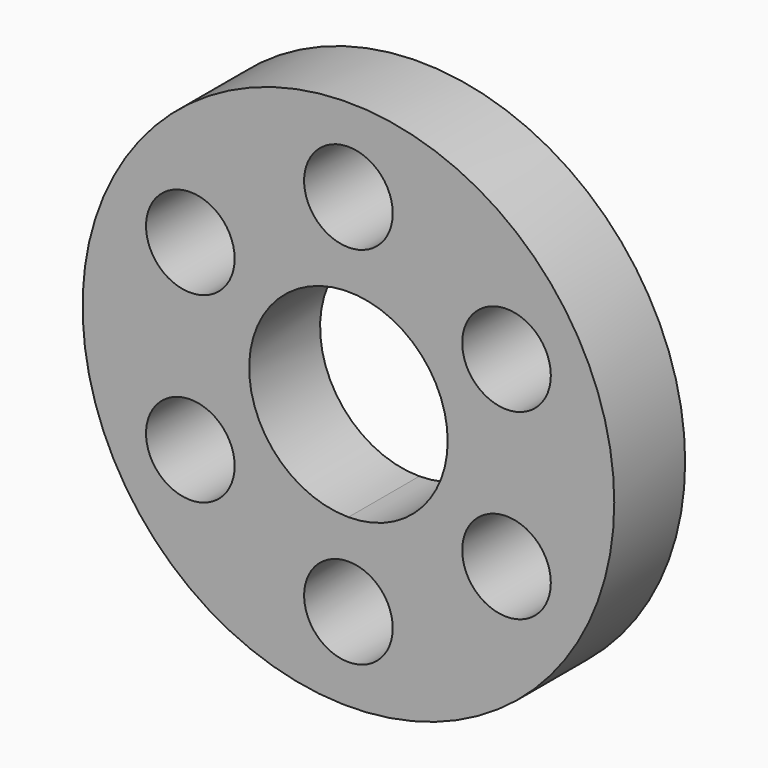
from build123d import *

# Parameters (mm, degrees)
F0_R     = 30
F0_R_2   = 5
F1_DEPTH = 7
F2_DEPTH = 10


with BuildPart() as f1:
    # F0 (on Front) → F1 (new body)
    with BuildSketch(Plane.XZ):
        with BuildLine():
            ThreePointArc((5, -20.6), (3.535534, -17.064466), (0, -15.6))
            ThreePointArc((0, -15.6), (-3.535534, -24.135534), (5, -20.6))
        make_face()
        Circle(F0_R)
        with Locations((-17.840123, -10.3)):
            Circle(F0_R_2, mode=Mode.SUBTRACT)
        with BuildLine():
            ThreePointArc((5, -20.6), (-3.535534, -24.135534), (0, -15.6))
            ThreePointArc((0, -15.6), (3.535534, -17.064466), (5, -20.6))
        make_face(mode=Mode.SUBTRACT)
        with Locations((17.840123, -10.3)):
            Circle(F0_R_2, mode=Mode.SUBTRACT)
        with Locations((-17.840123, 10.3)):
            Circle(F0_R_2, mode=Mode.SUBTRACT)
        with BuildLine():
            ThreePointArc((0, -11.2), (-7.919596, 7.919596), (11.2, 0))
            ThreePointArc((11.2, 0), (7.919596, -7.919596), (0, -11.2))
        make_face(mode=Mode.SUBTRACT)
        with Locations((17.840123, 10.3)):
            Circle(F0_R_2, mode=Mode.SUBTRACT)
        with Locations((0, 20.6)):
            Circle(F0_R_2, mode=Mode.SUBTRACT)
    extrude(amount=F1_DEPTH)

    # F0 (on Front) → F2 (join)
    with BuildSketch(Plane.XZ):
        with BuildLine():
            ThreePointArc((5, -20.6), (3.535534, -17.064466), (0, -15.6))
            ThreePointArc((0, -15.6), (-3.535534, -24.135534), (5, -20.6))
        make_face()
        Circle(F0_R)
        with Locations((-17.840123, -10.3)):
            Circle(F0_R_2, mode=Mode.SUBTRACT)
        with BuildLine():
            ThreePointArc((5, -20.6), (-3.535534, -24.135534), (0, -15.6))
            ThreePointArc((0, -15.6), (3.535534, -17.064466), (5, -20.6))
        make_face(mode=Mode.SUBTRACT)
        with Locations((17.840123, -10.3)):
            Circle(F0_R_2, mode=Mode.SUBTRACT)
        with Locations((-17.840123, 10.3)):
            Circle(F0_R_2, mode=Mode.SUBTRACT)
        with BuildLine():
            ThreePointArc((0, -11.2), (-7.919596, 7.919596), (11.2, 0))
            ThreePointArc((11.2, 0), (7.919596, -7.919596), (0, -11.2))
        make_face(mode=Mode.SUBTRACT)
        with Locations((17.840123, 10.3)):
            Circle(F0_R_2, mode=Mode.SUBTRACT)
        with Locations((0, 20.6)):
            Circle(F0_R_2, mode=Mode.SUBTRACT)
    extrude(amount=F2_DEPTH)


solid = f1.part
